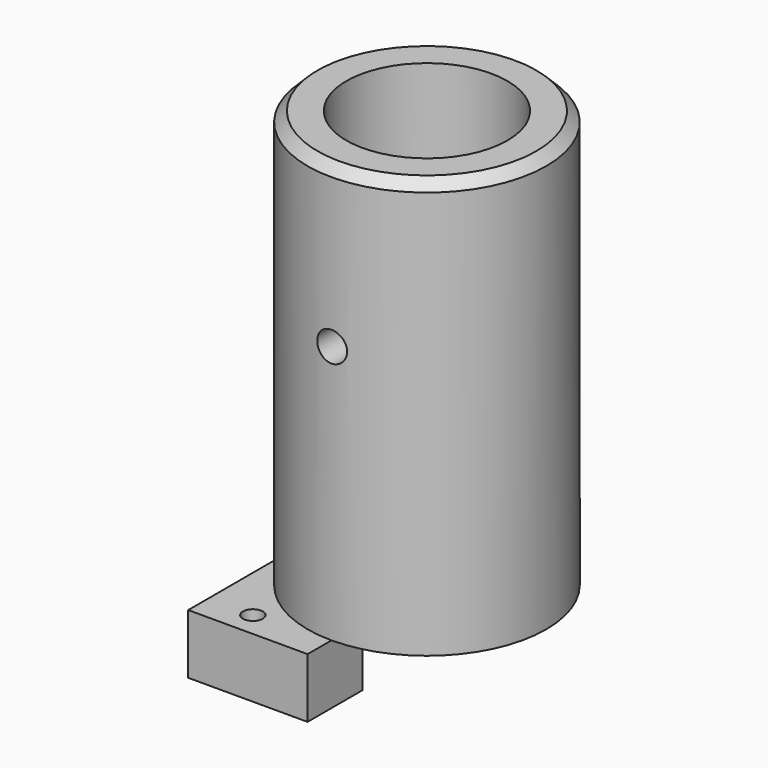
from build123d import *

# Parameters (mm, degrees)
F0_W          = 12
F0_H          = 30
F0_R          = 1
F1_DEPTH      = 6
F2_R          = 12
F2_R_2        = 8.1
F3_DEPTH      = 42
F4_DEPTH      = 6.001
F5_W          = 12
F5_H          = 1.5
F6_DEPTH      = 24.001
F7_R          = 1.5
F8_DEPTH      = 15.001
F8_DEPTH_BACK = 15.001
F9_SIZE       = 1


with BuildPart() as f1:
    # F0 (on Top) → F1 (new body)
    with BuildSketch(Plane.XY):
        Rectangle(F0_W, F0_H)
        with Locations((-1.5, -12.5)):
            Circle(F0_R, mode=Mode.SUBTRACT)
        with Locations((-1.5, 12.5)):
            Circle(F0_R, mode=Mode.SUBTRACT)
    extrude(amount=F1_DEPTH)

    # F2 (on face) → F3 (join)
    with BuildSketch(Plane.XY.offset(6)):
        with Locations((6, 0)):
            Circle(F2_R)
        with Locations((6, 0)):
            Circle(F2_R_2, mode=Mode.SUBTRACT)
    extrude(amount=F3_DEPTH)

    # F4 (cut, through all): a face of the model
    f4_faces = [f1.faces().sort_by_distance(p)[0] for p in [
        (2.5622532292, 0, 6),
    ]]
    extrude(f4_faces, amount=-F4_DEPTH, mode=Mode.SUBTRACT)

    # F5 (on face) → F6 (cut, through all)
    with BuildSketch(Plane(origin=(-6, 0, 0), x_dir=(0, -1, 0), z_dir=(-1, 0, 0))):
        with Locations((0, 0.75)):
            Rectangle(F5_W, F5_H)
    extrude(amount=-F6_DEPTH, mode=Mode.SUBTRACT)

    # F7 (on Front) → F8 (cut, two sides)
    with BuildSketch(Plane.XZ) as f8_sk:
        with Locations((6, 32)):
            Circle(F7_R)
    extrude(amount=-F8_DEPTH, mode=Mode.SUBTRACT)
    extrude(f8_sk.sketch, amount=F8_DEPTH_BACK, mode=Mode.SUBTRACT)

    # F9
    f9_edges = [f1.edges().sort_by_distance(p)[0] for p in [
        (-6, 0, 48),
    ]]
    chamfer(f9_edges, length=F9_SIZE)


solid = f1.part
